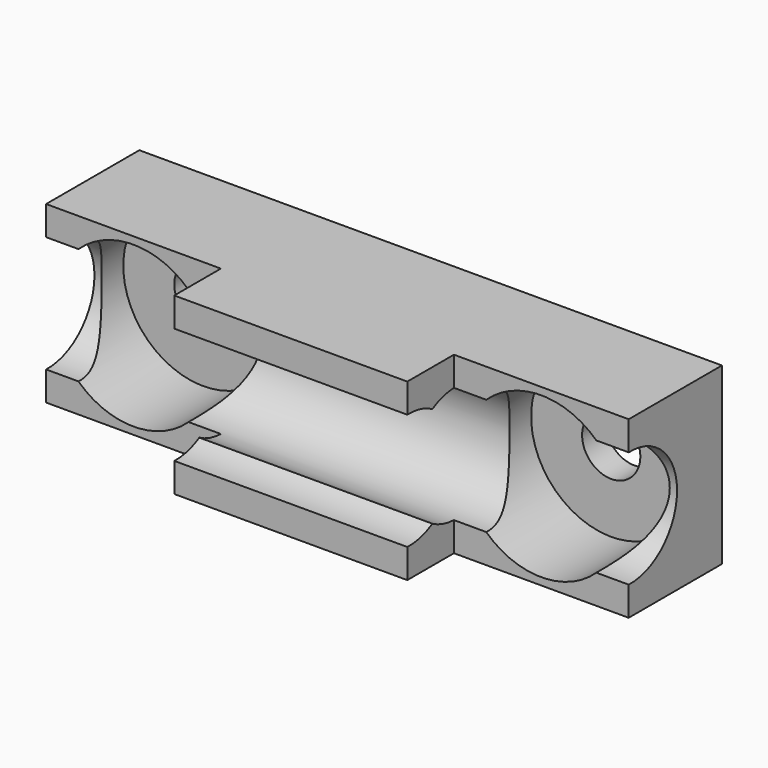
from build123d import *

# Parameters (mm, degrees)
CYLINDER042_R     = 5.5
CYLINDER042_DEPTH = 10
BOX012_W          = 12
BOX012_H          = 4
BOX012_DEPTH      = 12
CYLINDER041_R     = 2
CYLINDER041_DEPTH = 12
CYLINDER040_R     = 5.5
CYLINDER040_DEPTH = 10
BOX011_W          = 12
BOX011_H          = 4
BOX011_DEPTH      = 12
CYLINDER039_R     = 2
CYLINDER039_DEPTH = 12
CYLINDER043_R     = 4
CYLINDER043_DEPTH = 40
CYLINDER038_R     = 4
CYLINDER038_DEPTH = 40
BOX009_W          = 40
BOX009_H          = 12
BOX009_DEPTH      = 12


with BuildPart() as cylinder042:
    # Cylinder042 → Cylinder042 (new body)
    with BuildSketch(Plane(origin=(20, 10, 6), x_dir=(1, 0, 0), z_dir=(0, -1, 0))):
        Circle(CYLINDER042_R)
    extrude(amount=CYLINDER042_DEPTH)


with BuildPart() as cube012:
    # Box012 → Box012 (new body)
    with BuildSketch(Plane(origin=(14, 0, 0), x_dir=(1, 0, 0), z_dir=(0, 0, 1))):
        with Locations((6, 2)):
            Rectangle(BOX012_W, BOX012_H)
    extrude(amount=BOX012_DEPTH)


with BuildPart() as fusion014:
    # Cylinder041 → Cylinder041 (new body)
    with BuildSketch(Plane(origin=(20, 12, 6), x_dir=(1, 0, 0), z_dir=(0, -1, 0))):
        Circle(CYLINDER041_R)
    extrude(amount=CYLINDER041_DEPTH)

    # Fusion014: union Cylinder042, Cube012
    add(cylinder042.part)
    add(cube012.part)


with BuildPart() as fusion014_1:
    # Fusion014 placement: moved
    add(fusion014.part.moved(Location((14, 0, 0))))


with BuildPart() as cylinder040:
    # Cylinder040 → Cylinder040 (new body)
    with BuildSketch(Plane(origin=(20, 10, 6), x_dir=(1, 0, 0), z_dir=(0, -1, 0))):
        Circle(CYLINDER040_R)
    extrude(amount=CYLINDER040_DEPTH)


with BuildPart() as cube011:
    # Box011 → Box011 (new body)
    with BuildSketch(Plane(origin=(14, 0, 0), x_dir=(1, 0, 0), z_dir=(0, 0, 1))):
        with Locations((6, 2)):
            Rectangle(BOX011_W, BOX011_H)
    extrude(amount=BOX011_DEPTH)


with BuildPart() as fusion015:
    # Cylinder039 → Cylinder039 (new body)
    with BuildSketch(Plane(origin=(20, 12, 6), x_dir=(1, 0, 0), z_dir=(0, -1, 0))):
        Circle(CYLINDER039_R)
    extrude(amount=CYLINDER039_DEPTH)

    # Fusion013: union Cylinder040, Cube011
    add(cylinder040.part)
    add(cube011.part)


with BuildPart() as fusion015_1:
    # Fusion013 placement: moved
    add(fusion015.part.moved(Location((-14, 0, 0))))

    # Fusion015: union Fusion014
    add(fusion014_1.part)


with BuildPart() as cylinder043:
    # Cylinder043 → Cylinder043 (new body)
    with BuildSketch(Plane(origin=(0, 0.15, 6), x_dir=(0, 0, -1), z_dir=(1, 0, 0))):
        Circle(CYLINDER043_R)
    extrude(amount=CYLINDER043_DEPTH)


with BuildPart() as fusion016:
    # Cylinder038 → Cylinder038 (new body)
    with BuildSketch(Plane(origin=(0, 4.15, 6), x_dir=(0, 0, -1), z_dir=(1, 0, 0))):
        Circle(CYLINDER038_R)
    extrude(amount=CYLINDER038_DEPTH)

    # Fusion016: union Cylinder043
    add(cylinder043.part)


with BuildPart() as cut015:
    # Box009 → Box009 (new body)
    with BuildSketch(Plane.XY):
        with Locations((20, 6)):
            Rectangle(BOX009_W, BOX009_H)
    extrude(amount=BOX009_DEPTH)

    # Cut014: cut Fusion016
    add(fusion016.part, mode=Mode.SUBTRACT)

    # Cut015: cut Fusion015
    add(fusion015_1.part, mode=Mode.SUBTRACT)


solid = cut015.part
